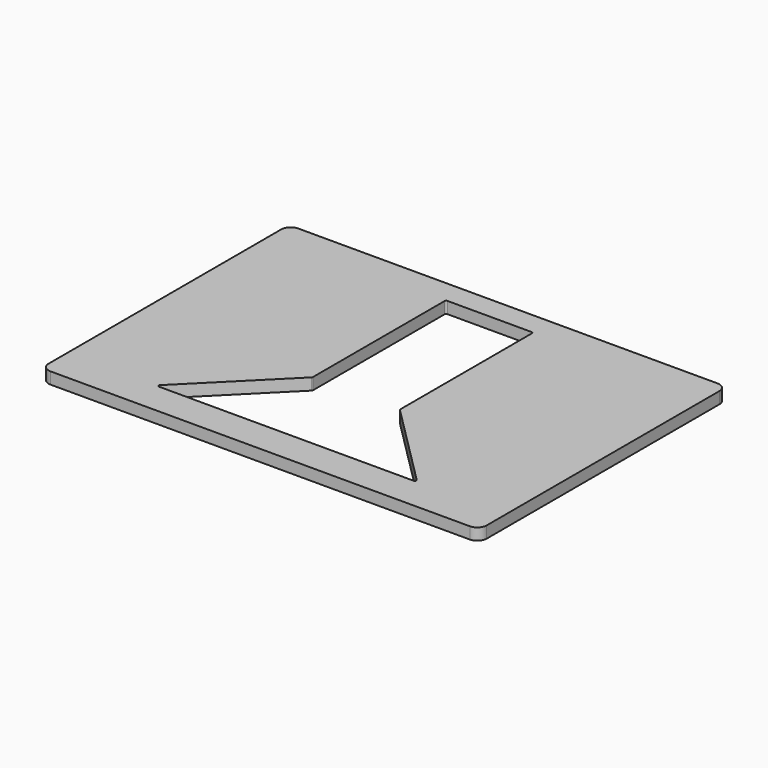
from build123d import *

# Parameters (mm, degrees)
F1_DEPTH = 6.35
F3_DEPTH = 25.4
F5_DEPTH = 25.4


with BuildPart() as f1:
    # F0 (on Top) → F1 (new body)
    with BuildSketch(Plane.XY):
        with BuildLine():
            Line((113.9825, 84.1375), (-113.9825, 84.1375))
            ThreePointArc((-113.9825, 84.1375), (-117.574602, 82.649602), (-119.0625, 79.0575))
            Line((-119.0625, 79.0575), (-119.0625, -79.0575))
            ThreePointArc((-119.0625, -79.0575), (-117.574602, -82.649602), (-113.9825, -84.1375))
            Line((-113.9825, -84.1375), (113.9825, -84.1375))
            ThreePointArc((113.9825, -84.1375), (117.574602, -82.649602), (119.0625, -79.0575))
            Line((119.0625, -79.0575), (119.0625, 79.0575))
            ThreePointArc((119.0625, 79.0575), (117.574602, 82.649602), (113.9825, 84.1375))
        make_face()
    extrude(amount=F1_DEPTH)

    # F2 (on face) → F3 (cut)
    with BuildSketch(Plane.XY.offset(6.35)):
        Polygon((22.479, 70.448201), (0, 70.448201), (-22.479, 70.448201), (-22.479, -19.467799), (-68.098701, -65.0875), (0, -65.0875), (68.098701, -65.0875), (22.479, -19.467799), align=None)
    extrude(amount=-F3_DEPTH, mode=Mode.SUBTRACT)

    # F4 (on face) → F5 (cut)
    with BuildSketch(Plane.XY.offset(6.35)):
        with BuildLine():
            ThreePointArc((-22.9616, 71.718201), (-23.518376, 71.487577), (-23.749, 70.930801))
            Line((-23.749, 70.930801), (-23.749, -18.615596))
            ThreePointArc((-23.749, -18.615596), (-23.808937, -18.916921), (-23.979624, -19.172372))
            Line((-23.979624, -19.172372), (-69.820576, -65.013324))
            ThreePointArc((-69.820576, -65.013324), (-69.991263, -65.871425), (-69.263801, -66.3575))
            Line((-69.263801, -66.3575), (69.263801, -66.3575))
            ThreePointArc((69.263801, -66.3575), (69.991263, -65.871425), (69.820576, -65.013324))
            Line((69.820576, -65.013324), (23.979624, -19.172372))
            ThreePointArc((23.979624, -19.172372), (23.808937, -18.916921), (23.749, -18.615596))
            Line((23.749, -18.615596), (23.749, 70.930801))
            ThreePointArc((23.749, 70.930801), (23.518376, 71.487577), (22.9616, 71.718201))
            Line((22.9616, 71.718201), (-22.9616, 71.718201))
        make_face()
    extrude(amount=-F5_DEPTH, mode=Mode.SUBTRACT)


solid = f1.part
